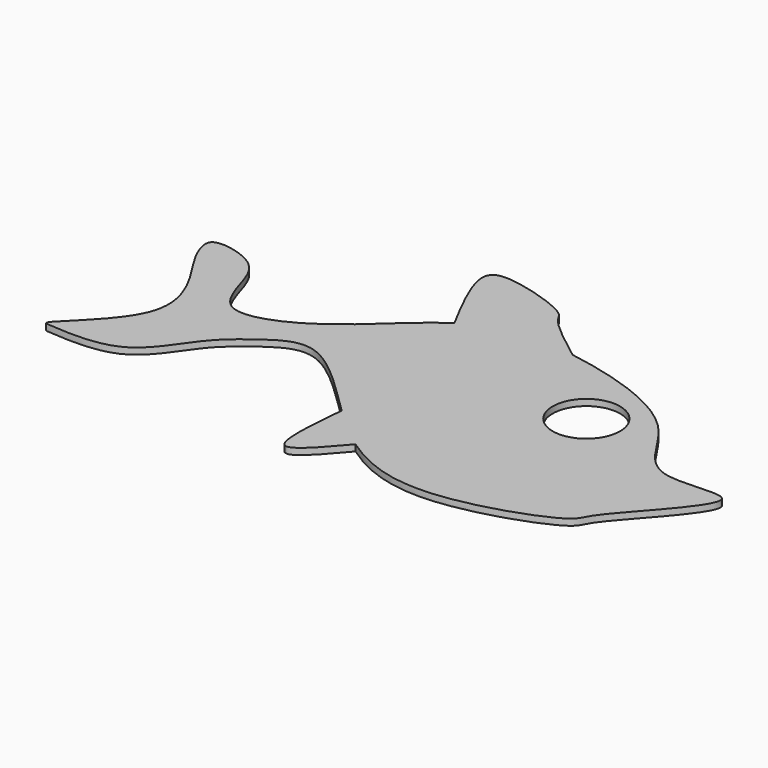
from build123d import *

# Parameters (mm, degrees)
F0_R     = 6.731474922
F1_DEPTH = 1.27


with BuildPart() as f1:
    # F0 (on Top) → F1 (new body)
    with BuildSketch(Plane.XY):
        with BuildLine():
            add(Edge.make_bspline(
                [(-18.6845051993, -22.3474812184), (-13.0116557158, -26.3253076474), (-0.0849869405, -30.8235785936), (24.7940661502, -21.6755113538), (24.0244223457, -17.8701636896), (46.0676589408, 3.5816309272), (29.7086439573, -1.3014154972), (25.2418350428, 0)],
                knots=[0.7756971279, 0.7756971279, 0.7756971279, 0.7756971279, 0.8226972362, 0.8807183783, 0.9055328419, 0.9584619436, 1, 1, 1, 1], degree=3))
            add(Edge.make_bspline(
                [(25.2418350428, 0), (20.1925874205, 1.4711104126), (16.6880931081, 14.6286522049), (-0.5653849432, 20.4788718858), (-9.9269182033, 22.2193589483), (-11.1192242169, 22.4084790109)],
                knots=[0, 0, 0, 0, 0.0469543105, 0.105111409, 0.1137281625, 0.1137281625, 0.1137281625, 0.1137281625], degree=3))
            add(Edge.make_bspline(
                [(-11.1192242169, 22.4084790109), (-17.3379456053, 23.3948742522), (-24.8228663315, 23.4223251712), (-30.8945013748, 20.1150893296), (-32.215174453, 19.2540330903)],
                knots=[0.1137281625, 0.1137281625, 0.1137281625, 0.1137281625, 0.1586706424, 0.1718219477, 0.1718219477, 0.1718219477, 0.1718219477], degree=3))
            add(Edge.make_bspline(
                [(-32.215174453, 19.2540330903), (-35.9279774964, 16.8333490629), (-43.2123571861, 9.5016817732), (-53.4337174582, 1.9947424498), (-63.7167534105, 0.1502574635), (-66.6844836962, 8.7751298138), (-68.7262220481, 16.1241062543), (-79.7675965069, 18.5315178813), (-79.0589491707, 13.7784066364), (-76.2483336162, 8.6633240813), (-65.3813482157, -6.9208371067), (-84.0012711752, -20.6897089074), (-79.8998054634, -20.7236755939), (-66.1739225488, -22.0143129049), (-59.712674327, -9.5350711018), (-52.8376872946, -4.1654125401), (-43.6899753217, 1.9867474246), (-33.5040222983, -8.9702642767), (-27.4704072126, -14.8102050999)],
                knots=[0.1718219477, 0.1718219477, 0.1718219477, 0.1718219477, 0.2087941608, 0.2537471215, 0.287725687, 0.3202758623, 0.3532620432, 0.3875926519, 0.4070650508, 0.4365745854, 0.4842406855, 0.5330988133, 0.5471920852, 0.5892232049, 0.6317330936, 0.6670171915, 0.7021101453, 0.7515558687, 0.7515558687, 0.7515558687, 0.7515558687], degree=3))
            add(Edge.make_bspline(
                [(-27.4704072126, -14.8102050999), (-25.9173699518, -16.3133910955), (-22.9619857909, -19.0932013412), (-20.0621662044, -21.3814594031), (-18.6845051993, -22.3474812184)],
                knots=[0.7515558687, 0.7515558687, 0.7515558687, 0.7515558687, 0.7642830728, 0.7756971279, 0.7756971279, 0.7756971279, 0.7756971279], degree=3))
        make_face()
        with Locations((4.0660565719, 6.8738441914)):
            Circle(F0_R, mode=Mode.SUBTRACT)
        with BuildLine():
            add(Edge.make_bspline(
                [(-11.1192242169, 22.4084790109), (-17.3379456053, 23.3948742522), (-24.8228663315, 23.4223251712), (-30.8945013748, 20.1150893296), (-32.215174453, 19.2540330903)],
                knots=[0.1137281625, 0.1137281625, 0.1137281625, 0.1137281625, 0.1586706424, 0.1718219477, 0.1718219477, 0.1718219477, 0.1718219477], degree=3))
            add(Edge.make_bspline(
                [(-11.1192242169, 22.4084790109), (-14.9578425596, 25.3296980441), (-20.701451275, 29.6793745748), (-20.9794248927, 32.8685887255), (-35.7934787013, 37.5312366105), (-40.0907360367, 34.137450417), (-35.4286457301, 25.3243447668), (-32.215174453, 19.2540330903)],
                knots=[0, 0, 0, 0, 0.2325271649, 0.3476531636, 0.6037534569, 0.7274204933, 1, 1, 1, 1], degree=3))
        make_face()
        with BuildLine():
            add(Edge.make_bspline(
                [(-18.6845051993, -22.3474812184), (-22.0530490672, -26.2950942109), (-29.3154933298, -34.7969205834), (-28.1160081473, -21.7965087858), (-27.4704072126, -14.8102050999)],
                knots=[0, 0, 0, 0, 0.4631140723, 1, 1, 1, 1], degree=3))
            add(Edge.make_bspline(
                [(-27.4704072126, -14.8102050999), (-25.9173699518, -16.3133910955), (-22.9619857909, -19.0932013412), (-20.0621662044, -21.3814594031), (-18.6845051993, -22.3474812184)],
                knots=[0.7515558687, 0.7515558687, 0.7515558687, 0.7515558687, 0.7642830728, 0.7756971279, 0.7756971279, 0.7756971279, 0.7756971279], degree=3))
        make_face()
    extrude(amount=-F1_DEPTH)


solid = f1.part
